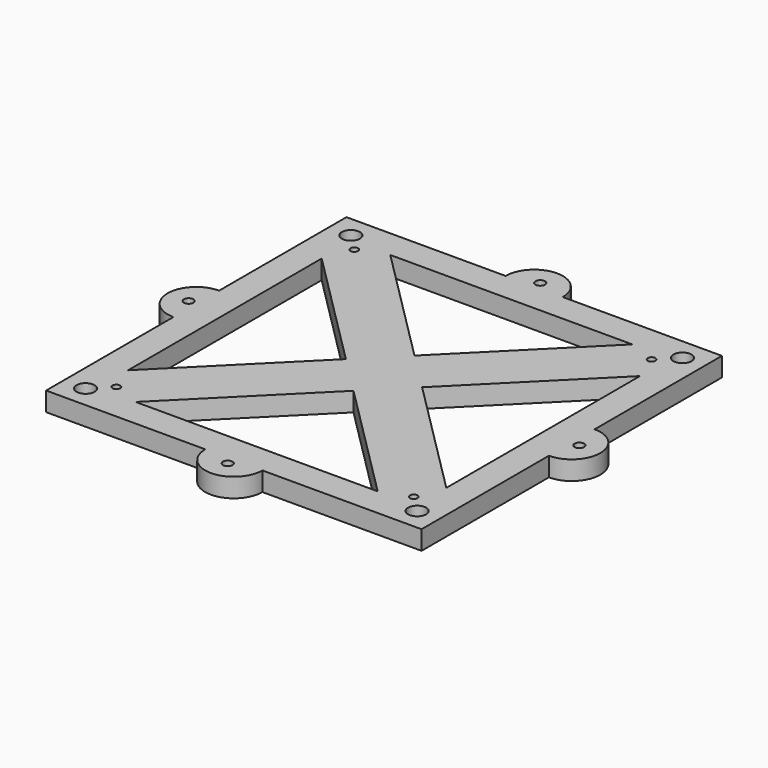
from build123d import *

# Parameters (mm, degrees)
F0_R     = 4
F0_R_2   = 9.5
F0_R_3   = 5
F1_DEPTH = 20


with BuildPart() as f1:
    # F0 (on Top) → F1 (new body)
    with BuildSketch(Plane.XY):
        Polygon((-197, 127), (-167, 127), (-127, 167), (-127, 197), (-197, 197), align=None)
        with Locations((-156, 156)):
            Circle(F0_R, mode=Mode.SUBTRACT)
        with Locations((-174, 174)):
            Circle(F0_R_2, mode=Mode.SUBTRACT)
        Polygon((-167, -127), (-167, 127), (-197, 127), (-197, 30), (-197, -30), (-197, -127), align=None)
        Polygon((-127, 197), (-127, 167), (127, 167), (127, 197), (30, 197), (-30, 197), align=None)
        Polygon((-127, -167), (-167, -127), (-197, -127), (-197, -197), (-127, -197), align=None)
        with Locations((-174, -174)):
            Circle(F0_R_2, mode=Mode.SUBTRACT)
        with Locations((-156, -156)):
            Circle(F0_R, mode=Mode.SUBTRACT)
        Polygon((127, 197), (127, 167), (167, 127), (197, 127), (197, 197), align=None)
        with Locations((156, 156)):
            Circle(F0_R, mode=Mode.SUBTRACT)
        with Locations((174, 174)):
            Circle(F0_R_2, mode=Mode.SUBTRACT)
        with BuildLine():
            Line((-197, -30), (-197, 30))
            ThreePointArc((-197, 30), (-227, 0), (-197, -30))
        make_face()
        with Locations((-205, 0)):
            Circle(F0_R_3, mode=Mode.SUBTRACT)
        Polygon((127, -167), (-127, -167), (-127, -197), (-30, -197), (30, -197), (127, -197), align=None)
        with BuildLine():
            ThreePointArc((30, 197), (0, 227), (-30, 197))
            Line((-30, 197), (30, 197))
        make_face()
        with Locations((0, 205)):
            Circle(F0_R_3, mode=Mode.SUBTRACT)
        Polygon((197, 127), (167, 127), (167, -127), (197, -127), (197, -30), (197, 30), align=None)
        Polygon((167, -127), (127, -167), (127, -197), (197, -197), (197, -127), align=None)
        with Locations((174, -174)):
            Circle(F0_R_2, mode=Mode.SUBTRACT)
        with Locations((156, -156)):
            Circle(F0_R, mode=Mode.SUBTRACT)
        with BuildLine():
            Line((30, -197), (-30, -197))
            ThreePointArc((-30, -197), (0, -227), (30, -197))
        make_face()
        with Locations((0, -205)):
            Circle(F0_R_3, mode=Mode.SUBTRACT)
        with BuildLine():
            ThreePointArc((197, -30), (227, 0), (197, 30))
            Line((197, 30), (197, -30))
        make_face()
        with Locations((205, 0)):
            Circle(F0_R_3, mode=Mode.SUBTRACT)
        Polygon((40, 0), (0, -40), (127, -167), (167, -127), align=None)
        Polygon((-40, 0), (-167, -127), (-127, -167), (0, -40), align=None)
        Polygon((-127, 167), (-167, 127), (-40, 0), (0, 40), align=None)
        Polygon((0, 40), (-40, 0), (0, -40), (40, 0), align=None)
        Polygon((167, 127), (127, 167), (0, 40), (40, 0), align=None)
    extrude(amount=F1_DEPTH)


solid = f1.part
